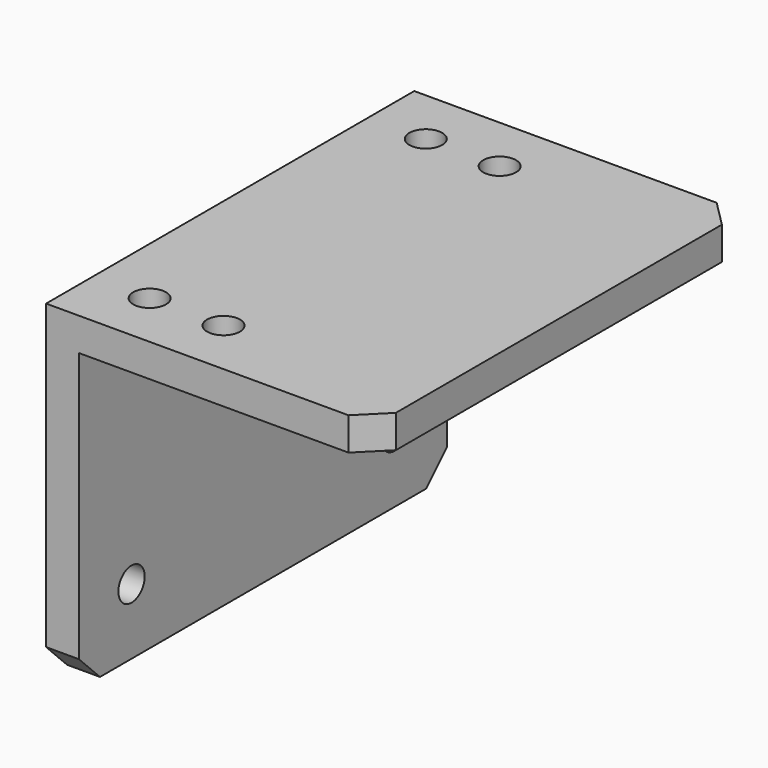
from build123d import *

# Parameters (mm, degrees)
F1_DEPTH = 88.9
F3_D     = 6.35
F4_SIZE  = 5.08
F6_D     = 6.35


with BuildPart() as f1:
    # F0 (on Front) → F1 (new body)
    with BuildSketch(Plane.XZ):
        Polygon((0, 63.5), (0, 0), (6.35, 0), (6.35, 57.15), (63.5, 57.15), (63.5, 63.5), align=None)
    extrude(amount=F1_DEPTH)

    # F3 (through all)
    with Locations(Plane.YZ.offset(6.35)):
        with Locations((-76.2, 12.7), (-12.7, 12.7)):
            Hole(F3_D / 2)

    # F4
    f4_edges = [f1.edges().sort_by_distance(p)[0] for p in [
        (3.175, -88.9, 0),
        (3.175, 0, 0),
        (63.5, -88.9, 60.325),
        (63.5, 0, 60.325),
    ]]
    chamfer(f4_edges, length=F4_SIZE)

    # F6 (through all)
    with Locations(Plane.XY.offset(63.5)):
        with Locations((25.4, -11.1252), (11.1252, -11.1252), (11.1252, -77.8002), (25.4, -77.8002)):
            Hole(F6_D / 2)


solid = f1.part
